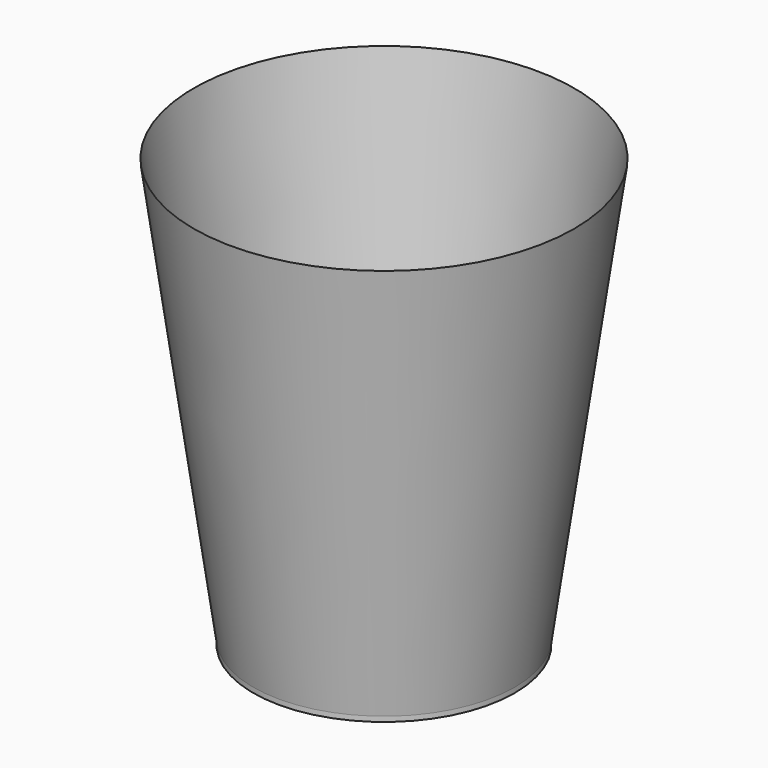
from build123d import *

# Parameters (mm, degrees)
F0_R          = 26
F1_DEPTH      = 115
F1_TAPER      = -8
F1_DEPTH_BACK = 1
F2_R          = 24.5
F3_DEPTH      = 115
F3_TAPER      = -9


with BuildPart() as f1:
    # F0 (on Top) → F1 (new body, two sides)
    with BuildSketch(Plane.XY) as f1_sk:
        Circle(F0_R)
    extrude(amount=F1_DEPTH, taper=F1_TAPER)
    extrude(f1_sk.sketch, amount=-F1_DEPTH_BACK)

    # F2 (on Top) → F3 (cut)
    with BuildSketch(Plane.XY):
        Circle(F2_R)
    extrude(amount=F3_DEPTH, taper=F3_TAPER, mode=Mode.SUBTRACT)


solid = f1.part
